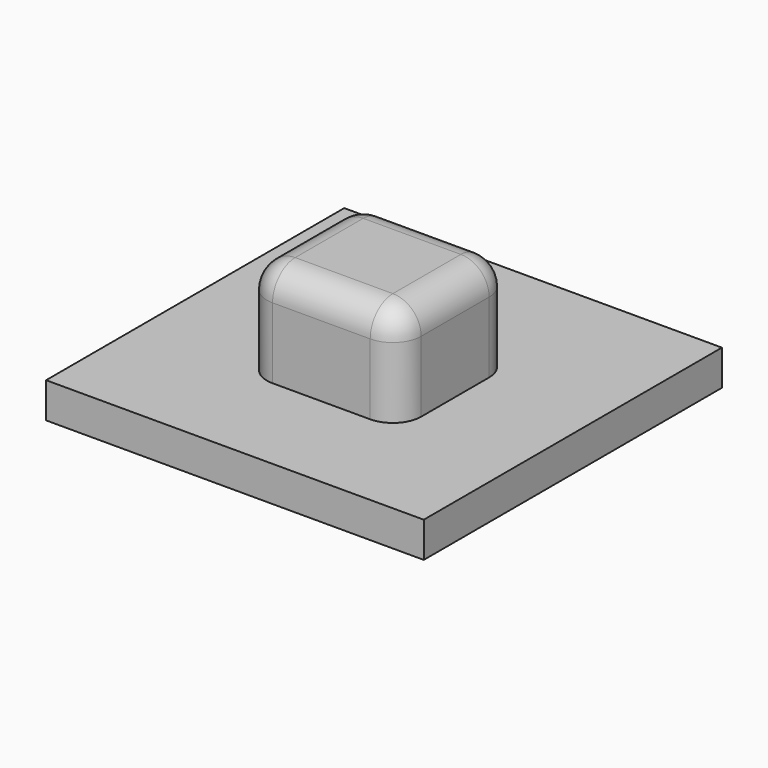
from build123d import *

# Parameters (mm, degrees)
F0_W     = 67.757116
F0_H     = 66.861842
F1_DEPTH = 6.35
F2_W     = 27.674626
F2_H     = 25.4
F3_DEPTH = 17.78
F4_R     = 5.08
F5_R     = 5.08


with BuildPart() as f1:
    # F0 (on Top) → F1 (new body)
    with BuildSketch(Plane.XY):
        with Locations((-1.752707, -10.752427)):
            Rectangle(F0_W, F0_H)
    extrude(amount=F1_DEPTH)

    # F2 (on face) → F3 (join)
    with BuildSketch(Plane.XY.offset(6.35)):
        with Locations((-1.518216, -12.386003)):
            Rectangle(F2_W, F2_H)
    extrude(amount=F3_DEPTH)

    # F4
    f4_edges = [f1.edges().sort_by_distance(p)[0] for p in [
        (12.319097, -25.086003, 15.24),
        (-15.355529, -25.086003, 15.24),
        (-15.355529, 0.313997, 15.24),
        (12.319097, 0.313997, 15.24),
    ]]
    fillet(f4_edges, radius=F4_R)

    # F5
    f5_edges = [f1.edges().sort_by_distance(p)[0] for p in [
        (-1.518216, -25.086003, 24.13),
    ]]
    fillet(f5_edges, radius=F5_R)


solid = f1.part
